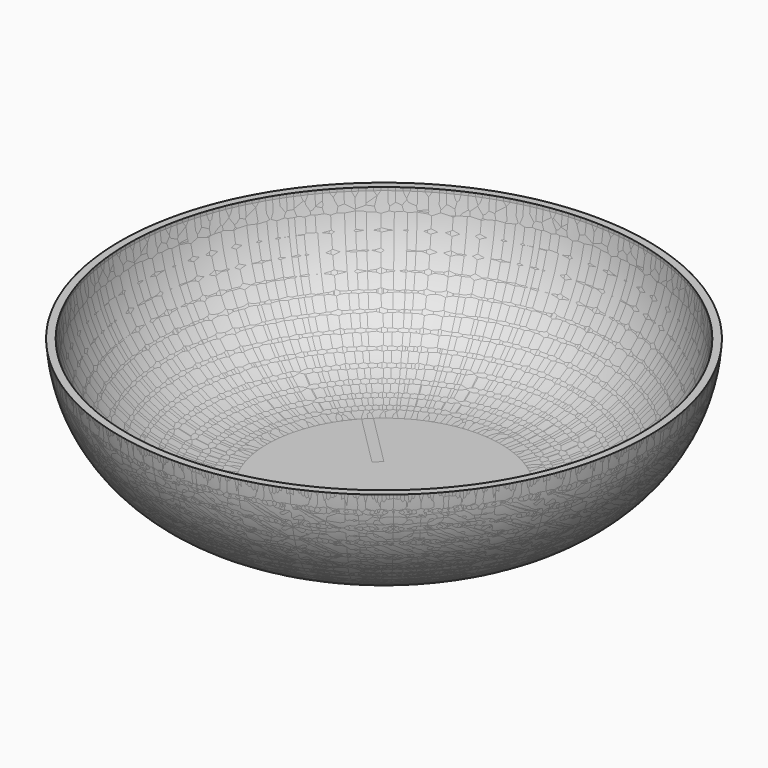
from build123d import *

# Parameters (mm, degrees)
F3_DEPTH = 1.501
F4_COUNT = 8


with BuildPart() as f1:
    # F0 (on Front) → F1 (revolve)
    with BuildSketch(Plane.XZ):
        with BuildLine():
            Line((0, 1.5), (0, 0))
            Line((0, 0), (25, 0))
            ThreePointArc((25, 0), (46.561335, 8.516078), (56.483948, 29.467367))
            Line((56.483948, 29.467367), (54.924905, 29.467367))
            Line((54.924905, 29.467367), (54.924905, 28.781695))
            ThreePointArc((54.924905, 28.781695), (45.247165, 9.344121), (25, 1.5))
            Line((25, 1.5), (1.430626, 1.5))
            Line((1.430626, 1.5), (0, 1.5))
        make_face()
    revolve(axis=Axis((0, 0, 44.431782), (0, 0, 1)))

    # F2 (on face) → F3 (cut, through all)
    with BuildSketch(Plane.XY.offset(1.5)):
        with BuildLine():
            Line((-9.194877, -1), (-9.194877, 1))
            Line((-9.194877, 1), (-24.979992, 1))
            ThreePointArc((-24.979992, 1), (-25.020056, 0), (-24.979992, -1))
            Line((-24.979992, -1), (-9.194877, -1))
        make_face()
    extrude(amount=-F3_DEPTH, mode=Mode.SUBTRACT)


with BuildPart() as f4_1:
    # F4: instance of F1
    add(f1.part.rotate(Axis((0, 0, 44.431782), (0, 0, 1)), 1 * 360 / F4_COUNT))


with BuildPart() as f4_2:
    # F4: instance of F1
    add(f1.part.rotate(Axis((0, 0, 44.431782), (0, 0, 1)), 2 * 360 / F4_COUNT))


with BuildPart() as f4_3:
    # F4: instance of F1
    add(f1.part.rotate(Axis((0, 0, 44.431782), (0, 0, 1)), 3 * 360 / F4_COUNT))


with BuildPart() as f4_4:
    # F4: instance of F1
    add(f1.part.rotate(Axis((0, 0, 44.431782), (0, 0, 1)), 4 * 360 / F4_COUNT))


with BuildPart() as f4_5:
    # F4: instance of F1
    add(f1.part.rotate(Axis((0, 0, 44.431782), (0, 0, 1)), 5 * 360 / F4_COUNT))


with BuildPart() as f4_6:
    # F4: instance of F1
    add(f1.part.rotate(Axis((0, 0, 44.431782), (0, 0, 1)), 6 * 360 / F4_COUNT))


with BuildPart() as f4_7:
    # F4: instance of F1
    add(f1.part.rotate(Axis((0, 0, 44.431782), (0, 0, 1)), 7 * 360 / F4_COUNT))


solid = Compound([f1.part, f4_1.part, f4_2.part, f4_3.part, f4_4.part, f4_5.part, f4_6.part, f4_7.part])
